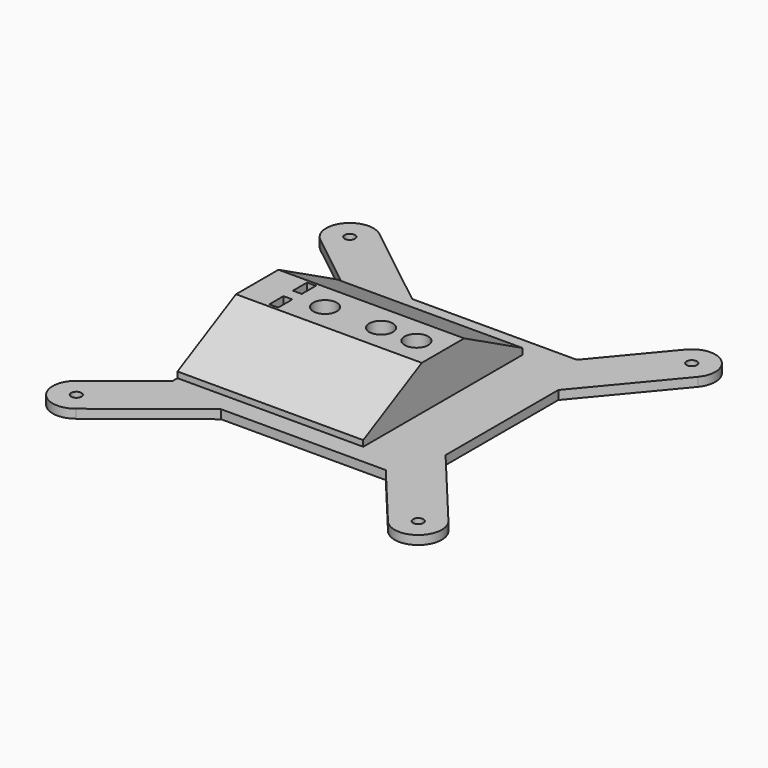
from build123d import *

# Parameters (mm, degrees)
BOX063_W                  = 57
BOX063_H                  = 21
BOX063_DEPTH              = 15
CYLINDER030_R             = 1.75
CYLINDER030_DEPTH         = 24.5
CYLINDER030_PITCH_ANGLE   = 90
CYLINDER031_R             = 3
CYLINDER031_DEPTH         = 21.5
CYLINDER031_PITCH_ANGLE   = 90
FUSION027_PITCH_ANGLE     = -90
FUSION027_PLACEMENT_ANGLE = -180
FUSION024_PITCH_ANGLE     = -90
FUSION024_PLACEMENT_ANGLE = -180
FUSION025_PITCH_ANGLE     = -90
FUSION025_PLACEMENT_ANGLE = -180
BOX029_W                  = 3
BOX029_H                  = 74
BOX029_DEPTH              = 6
BOX029_PITCH_ANGLE        = -90
BOX029_PLACEMENT_ANGLE    = -180
BOX030_W                  = 3
BOX030_H                  = 74
BOX030_DEPTH              = 6
BOX030_PITCH_ANGLE        = -90
BOX030_PLACEMENT_ANGLE    = -180
FUSION026_PITCH_ANGLE     = -90
FUSION026_PLACEMENT_ANGLE = -180
FUSION056_ROLL_ANGLE      = -90
FUSION056_PLACEMENT_ANGLE = 90
CYLINDER_R                = 4
CYLINDER_DEPTH            = 60
CYLINDER063_R             = 1.75
CYLINDER063_DEPTH         = 60
CYLINDER061_R             = 4
CYLINDER061_DEPTH         = 60
CYLINDER060_R             = 4
CYLINDER060_DEPTH         = 60
CYLINDER062_R             = 1.75
CYLINDER062_DEPTH         = 60
SKETCH009_R               = 1.75
PAD007_DEPTH              = 3
PAD008_DEPTH              = 63


with BuildPart() as cube066:
    # Box063 → Box063 (new body)
    with BuildSketch(Plane(origin=(-93, -10.5, -6), x_dir=(1, 0, 0), z_dir=(0, 0, 1))):
        with Locations((28.5, 10.5)):
            Rectangle(BOX063_W, BOX063_H)
    extrude(amount=BOX063_DEPTH)


with BuildPart() as joint_d014:
    # Cylinder030 → Cylinder030 (new body)
    with BuildSketch(Plane.XY):
        Circle(CYLINDER030_R)
    extrude(amount=CYLINDER030_DEPTH)


with BuildPart() as joint_d014_1:
    # Cylinder030 pitch: moved
    add(joint_d014.part.rotate(Axis((0, 0, 0), (0, 1, 0)), CYLINDER030_PITCH_ANGLE))


with BuildPart() as joint_d014_2:
    # Cylinder030 placement: moved
    add(joint_d014_1.part.moved(Location((16, -24.5, 7))))


with BuildPart() as joint_d015:
    # Cylinder031 → Cylinder031 (new body)
    with BuildSketch(Plane.XY):
        Circle(CYLINDER031_R)
    extrude(amount=CYLINDER031_DEPTH)


with BuildPart() as joint_d015_1:
    # Cylinder031 pitch: moved
    add(joint_d015.part.rotate(Axis((0, 0, 0), (0, 1, 0)), CYLINDER031_PITCH_ANGLE))


with BuildPart() as joint_d015_2:
    # Cylinder031 placement: moved
    add(joint_d015_1.part.moved(Location((37, -24.5, 7))))


with BuildPart() as fusion027:
    # Fusion027 base: copy of Joint-D015
    add(joint_d015_2.part)

    # Fusion027: union Joint-D014
    add(joint_d014_2.part)


with BuildPart() as fusion027_1:
    # Fusion027 pitch: moved
    add(fusion027.part.rotate(Axis((0, 0, 0), (0, 1, 0)), FUSION027_PITCH_ANGLE))


with BuildPart() as fusion027_2:
    # Fusion027 placement: moved
    add(fusion027_1.part.moved(Location((-2, -39.5, 0))).rotate(Axis((-2, -39.5, 0), (0, 0, 1)), FUSION027_PLACEMENT_ANGLE))


with BuildPart() as fusion024:
    # Fusion024 base: copy of Joint-D015
    add(joint_d015_2.part)

    # Fusion024: union Joint-D014
    add(joint_d014_2.part)


with BuildPart() as fusion024_1:
    # Fusion024 pitch: moved
    add(fusion024.part.rotate(Axis((0, 0, 0), (0, 1, 0)), FUSION024_PITCH_ANGLE))


with BuildPart() as fusion024_2:
    # Fusion024 placement: moved
    add(fusion024_1.part.moved(Location((-12, 9.5, 0))).rotate(Axis((-12, 9.5, 0), (0, 0, 1)), FUSION024_PLACEMENT_ANGLE))


with BuildPart() as fusion025:
    # Fusion025 base: copy of Joint-D015
    add(joint_d015_2.part)

    # Fusion025: union Joint-D014
    add(joint_d014_2.part)


with BuildPart() as fusion025_1:
    # Fusion025 pitch: moved
    add(fusion025.part.rotate(Axis((0, 0, 0), (0, 1, 0)), FUSION025_PITCH_ANGLE))


with BuildPart() as fusion025_2:
    # Fusion025 placement: moved
    add(fusion025_1.part.moved(Location((-2, 9.5, 0))).rotate(Axis((-2, 9.5, 0), (0, 0, 1)), FUSION025_PLACEMENT_ANGLE))


with BuildPart() as cube047:
    # Box029 → Box029 (new body)
    with BuildSketch(Plane.XY):
        with Locations((1.5, 37)):
            Rectangle(BOX029_W, BOX029_H)
    extrude(amount=BOX029_DEPTH)


with BuildPart() as cube047_1:
    # Box029 pitch: moved
    add(cube047.part.rotate(Axis((0, 0, 0), (0, 1, 0)), BOX029_PITCH_ANGLE))


with BuildPart() as cube047_2:
    # Box029 placement: moved
    add(cube047_1.part.moved(Location((-8, 41.5, 18.5))).rotate(Axis((-8, 41.5, 18.5), (0, 0, 1)), BOX029_PLACEMENT_ANGLE))


with BuildPart() as cube048:
    # Box030 → Box030 (new body)
    with BuildSketch(Plane.XY):
        with Locations((1.5, 37)):
            Rectangle(BOX030_W, BOX030_H)
    extrude(amount=BOX030_DEPTH)


with BuildPart() as cube048_1:
    # Box030 pitch: moved
    add(cube048.part.rotate(Axis((0, 0, 0), (0, 1, 0)), BOX030_PITCH_ANGLE))


with BuildPart() as cube048_2:
    # Box030 placement: moved
    add(cube048_1.part.moved(Location((2, 41.5, 18.5))).rotate(Axis((2, 41.5, 18.5), (0, 0, 1)), BOX030_PLACEMENT_ANGLE))


with BuildPart() as fusion056:
    # Fusion026 base: copy of Joint-D015
    add(joint_d015_2.part)

    # Fusion026: union Joint-D014
    add(joint_d014_2.part)


with BuildPart() as fusion056_1:
    # Fusion026 pitch: moved
    add(fusion056.part.rotate(Axis((0, 0, 0), (0, 1, 0)), FUSION026_PITCH_ANGLE))


with BuildPart() as fusion056_2:
    # Fusion026 placement: moved
    add(fusion056_1.part.moved(Location((-12, -39.5, 0))).rotate(Axis((-12, -39.5, 0), (0, 0, 1)), FUSION026_PLACEMENT_ANGLE))

    # Fusion056: union Fusion027, Fusion024, Fusion025, Cube047, Cube048
    add(fusion027_2.part)
    add(fusion024_2.part)
    add(fusion025_2.part)
    add(cube047_2.part)
    add(cube048_2.part)


with BuildPart() as fusion056_3:
    # Fusion056 roll: moved
    add(fusion056_2.part.rotate(Axis((0, 0, 0), (1, 0, 0)), FUSION056_ROLL_ANGLE))


with BuildPart() as fusion056_4:
    # Fusion056 placement: moved
    add(fusion056_3.part.moved(Location((-30, 0, -2))).rotate(Axis((-30, 0, -2), (0, 0, 1)), FUSION056_PLACEMENT_ANGLE))


with BuildPart() as cylinder:
    # Cylinder → Cylinder (new body)
    with BuildSketch(Plane(origin=(-39, 0, -20), x_dir=(1, 0, 0), z_dir=(0, 0, 1))):
        Circle(CYLINDER_R)
    extrude(amount=CYLINDER_DEPTH)


with BuildPart() as cylinder157:
    # Cylinder063 → Cylinder063 (new body)
    with BuildSketch(Plane(origin=(-8, 0, -12), x_dir=(1, 0, 0), z_dir=(0, 0, 1))):
        Circle(CYLINDER063_R)
    extrude(amount=CYLINDER063_DEPTH)


with BuildPart() as cylinder155:
    # Cylinder061 → Cylinder061 (new body)
    with BuildSketch(Plane(origin=(-8, 0, 4), x_dir=(1, 0, 0), z_dir=(0, 0, 1))):
        Circle(CYLINDER061_R)
    extrude(amount=CYLINDER061_DEPTH)


with BuildPart() as cylinder060:
    # Cylinder060 → Cylinder060 (new body)
    with BuildSketch(Plane(origin=(-20, 0, 4), x_dir=(1, 0, 0), z_dir=(0, 0, 1))):
        Circle(CYLINDER060_R)
    extrude(amount=CYLINDER060_DEPTH)


with BuildPart() as fusion073:
    # Cylinder062 → Cylinder062 (new body)
    with BuildSketch(Plane(origin=(-20, 0, -12), x_dir=(1, 0, 0), z_dir=(0, 0, 1))):
        Circle(CYLINDER062_R)
    extrude(amount=CYLINDER062_DEPTH)

    # Fusion073: union Cylinder157, Cylinder155, Cylinder060
    add(cylinder157.part)
    add(cylinder155.part)
    add(cylinder060.part)


with BuildPart() as pad007:
    # Sketch009 → Pad007 (new body)
    with BuildSketch(Plane.XY.offset(2)):
        with BuildLine():
            Line((-81.932444, 51.697807), (-62, 36))
            Line((-62, 36), (-62, -36))
            Line((-62, -36), (-81.932444, -51.697807))
            ThreePointArc((-81.932444, -51.697807), (-83.267699, -62.932452), (-72.033053, -64.267694))
            Line((-72.033053, -64.267694), (-41.853791, -40.5))
            Line((-41.853791, -40.5), (14, -40.5))
            Line((14, -40.5), (32.837002, -63.104251))
            ThreePointArc((32.837002, -63.104251), (44.104251, -64.12851), (45.12851, -52.861261))
            Line((21, -23.907244), (45.12851, -52.861261))
            Line((21, 23.907244), (21, -23.907244))
            Line((45.12851, 52.861262), (21, 23.907244))
            ThreePointArc((45.12851, 52.861262), (44.104251, 64.12851), (32.837002, 63.104251))
            Line((14, 40.5), (32.837002, 63.104251))
            Line((-41.853791, 40.5), (14, 40.5))
            Line((-72.033053, 64.267694), (-41.853791, 40.5))
            ThreePointArc((-72.033053, 64.267694), (-83.267699, 62.932452), (-81.932444, 51.697807))
        make_face()
        with Locations((-76.982756, 57.982756)):
            Circle(SKETCH009_R, mode=Mode.SUBTRACT)
        with Locations((-76.982756, -57.982756)):
            Circle(SKETCH009_R, mode=Mode.SUBTRACT)
        with Locations((38.982756, 57.982756)):
            Circle(SKETCH009_R, mode=Mode.SUBTRACT)
        with Locations((38.982756, -57.982756)):
            Circle(SKETCH009_R, mode=Mode.SUBTRACT)
    extrude(amount=PAD007_DEPTH)


with BuildPart() as clone_of_cut104:
    # Sketch010 → Pad008 (new body)
    with BuildSketch(Plane(origin=(-62, 2, 0), x_dir=(0, 1, 0), z_dir=(1, 0, 0))):
        Polygon((-35.811086, 2), (-35.811086, 7), (-11, 19.977288), (7, 19.977288), (31.811086, 7), (31.811086, 2), align=None)
    extrude(amount=PAD008_DEPTH)

    # Fusion074: union Pad007
    add(pad007.part)

    # Cut101: cut Fusion073
    add(fusion073.part, mode=Mode.SUBTRACT)

    # Cut102: cut Cylinder
    add(cylinder.part, mode=Mode.SUBTRACT)

    # Cut103: cut Fusion056
    add(fusion056_4.part, mode=Mode.SUBTRACT)

    # Cut104: cut Cube066
    add(cube066.part, mode=Mode.SUBTRACT)


solid = clone_of_cut104.part
